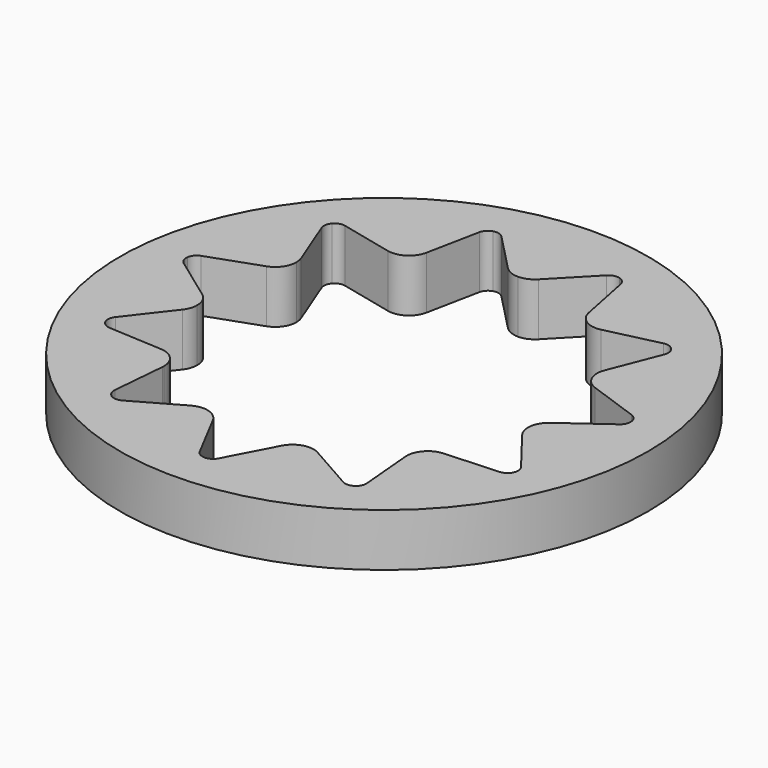
from build123d import *

# Parameters (mm, degrees)
F0_R     = 15.875
F1_DEPTH = 3.175


with BuildPart() as f1:
    # F0 (on Top) → F1 (new body)
    with BuildSketch(Plane.XY):
        Circle(F0_R)
        with BuildLine():
            ThreePointArc((0, 13.49375), (1.920361, 13.356403), (3.801629, 12.947158))
            ThreePointArc((3.801629, 12.947158), (7.295272, 11.351665), (10.197896, 8.836527))
            ThreePointArc((10.197896, 8.836527), (12.274347, 5.605506), (13.356403, 1.920361))
            ThreePointArc((13.356403, 1.920361), (13.459369, 0.962633), (13.49375, 0))
            ThreePointArc((13.49375, 0), (13.185376, -2.868303), (12.274347, -5.605506))
            ThreePointArc((12.274347, -5.605506), (10.197896, -8.836527), (7.295272, -11.351665))
            ThreePointArc((7.295272, -11.351665), (3.801629, -12.947158), (0, -13.49375))
            ThreePointArc((0, -13.49375), (-3.801629, -12.947158), (-7.295272, -11.351665))
            ThreePointArc((-7.295272, -11.351665), (-10.197896, -8.836527), (-12.274347, -5.605506))
            ThreePointArc((-12.274347, -5.605506), (-13.356403, -1.920361), (-13.356403, 1.920361))
            ThreePointArc((-13.356403, 1.920361), (-12.274347, 5.605506), (-10.197896, 8.836527))
            ThreePointArc((-10.197896, 8.836527), (-7.295272, 11.351665), (-3.801629, 12.947158))
            ThreePointArc((-3.801629, 12.947158), (-1.920361, 13.356403), (0, 13.49375))
        make_face(mode=Mode.SUBTRACT)
        with BuildLine():
            ThreePointArc((-4.245319, 12.462805), (-4.090966, 12.766808), (-3.801629, 12.947158))
            ThreePointArc((-3.801629, 12.947158), (-7.295272, 11.351665), (-10.197896, 8.836527))
            ThreePointArc((-10.197896, 8.836527), (-9.913648, 9.024797), (-9.572997, 9.038914))
            Line((-9.572997, 9.038914), (-6.418023, 8.298951))
            ThreePointArc((-6.418023, 8.298951), (-6.916891, 10.530686), (-4.858029, 9.535398))
            ThreePointArc((-4.858029, 9.535398), (-4.864249, 9.409858), (-4.882848, 9.285548))
            Line((-4.882848, 9.285548), (-4.245319, 12.462805))
        make_face()
        with BuildLine():
            ThreePointArc((-6.418023, 8.298951), (-5.441415, 8.467007), (-4.882848, 9.285548))
            ThreePointArc((-4.882848, 9.285548), (-4.864249, 9.409858), (-4.858029, 9.535398))
            ThreePointArc((-4.858029, 9.535398), (-6.916891, 10.530686), (-6.418023, 8.298951))
        make_face()
        with BuildLine():
            ThreePointArc((-13.100136, 1.315559), (-13.312545, 1.58225), (-13.356403, 1.920361))
            ThreePointArc((-13.356403, 1.920361), (-13.356403, -1.920361), (-12.274347, -5.605506))
            ThreePointArc((-12.274347, -5.605506), (-12.327522, -5.268735), (-12.198852, -4.953004))
            Line((-12.198852, -4.953004), (-10.215134, -2.390531))
            ThreePointArc((-10.215134, -2.390531), (-12.476452, -1.793843), (-10.47484, -0.584239))
            Line((-10.47484, -0.584239), (-13.100136, 1.315559))
        make_face()
        with BuildLine():
            ThreePointArc((-9.949379, -1.613103), (-10.088347, -1.035463), (-10.47484, -0.584239))
            ThreePointArc((-10.47484, -0.584239), (-12.476452, -1.793843), (-10.215134, -2.390531))
            ThreePointArc((-10.215134, -2.390531), (-10.017653, -2.023901), (-9.949379, -1.613103))
        make_face()
        with BuildLine():
            ThreePointArc((-10.309291, 8.189186), (-10.343797, 8.528379), (-10.197896, 8.836527))
            ThreePointArc((-10.197896, 8.836527), (-12.274347, 5.605506), (-13.356403, 1.920361))
            ThreePointArc((-13.356403, 1.920361), (-13.219065, 2.232419), (-12.940124, 2.428465))
            Line((-12.940124, 2.428465), (-9.885936, 3.511676))
            ThreePointArc((-9.885936, 3.511676), (-11.465684, 5.236202), (-9.127859, 5.171633))
            Line((-9.127859, 5.171633), (-10.309291, 8.189186))
        make_face()
        with BuildLine():
            ThreePointArc((-9.040451, 4.708625), (-9.062495, 4.944219), (-9.127859, 5.171633))
            ThreePointArc((-9.127859, 5.171633), (-11.465684, 5.236202), (-9.885936, 3.511676))
            ThreePointArc((-9.885936, 3.511676), (-9.273139, 3.975902), (-9.040451, 4.708625))
        make_face()
        with BuildLine():
            Line((0, 12.60475), (0, 13.49375))
            ThreePointArc((0, 13.49375), (-1.920361, 13.356403), (-3.801629, 12.947158))
            ThreePointArc((-3.801629, 12.947158), (-3.460718, 12.951865), (-3.166512, 12.779572))
            Line((-3.166512, 12.779572), (-0.912433, 10.451367))
            ThreePointArc((-0.912433, 10.451367), (-1.169358, 11.830231), (0, 12.60475))
        make_face()
        with BuildLine():
            ThreePointArc((1.27, 11.33475), (0.898026, 12.232776), (0, 12.60475))
            Line((0, 12.60475), (0, 10.06475))
            ThreePointArc((0, 10.06475), (0.495481, 10.165392), (0.912433, 10.451367))
            ThreePointArc((0.912433, 10.451367), (1.177219, 10.858247), (1.27, 11.33475))
        make_face()
        with BuildLine():
            ThreePointArc((3.166512, 12.779572), (3.460718, 12.951865), (3.801629, 12.947158))
            ThreePointArc((3.801629, 12.947158), (1.920361, 13.356403), (0, 13.49375))
            Line((0, 13.49375), (0, 12.60475))
            ThreePointArc((0, 12.60475), (0.898026, 12.232776), (1.27, 11.33475))
            ThreePointArc((1.27, 11.33475), (1.177219, 10.858247), (0.912433, 10.451367))
            Line((0.912433, 10.451367), (3.166512, 12.779572))
        make_face()
        with BuildLine():
            Line((0, 10.06475), (0, 12.60475))
            ThreePointArc((0, 12.60475), (-1.169358, 11.830231), (-0.912433, 10.451367))
            ThreePointArc((-0.912433, 10.451367), (-0.495481, 10.165392), (0, 10.06475))
        make_face()
        with BuildLine():
            ThreePointArc((10.197896, 8.836527), (7.295272, 11.351665), (3.801629, 12.947158))
            ThreePointArc((3.801629, 12.947158), (4.090966, 12.766808), (4.245319, 12.462805))
            Line((4.245319, 12.462805), (4.882848, 9.285548))
            ThreePointArc((4.882848, 9.285548), (6.002488, 10.799178), (7.398029, 9.535398))
            ThreePointArc((7.398029, 9.535398), (7.123316, 8.746536), (6.418023, 8.298951))
            Line((6.418023, 8.298951), (9.572997, 9.038914))
            ThreePointArc((9.572997, 9.038914), (9.913648, 9.024797), (10.197896, 8.836527))
        make_face()
        with BuildLine():
            ThreePointArc((7.398029, 9.535398), (6.002488, 10.799178), (4.882848, 9.285548))
            ThreePointArc((4.882848, 9.285548), (5.441415, 8.467006), (6.418023, 8.298951))
            ThreePointArc((6.418023, 8.298951), (7.123316, 8.746536), (7.398029, 9.535398))
        make_face()
        with BuildLine():
            ThreePointArc((13.356403, 1.920361), (12.274347, 5.605506), (10.197896, 8.836527))
            ThreePointArc((10.197896, 8.836527), (10.312958, 8.6426), (10.352995, 8.420691))
            ThreePointArc((10.352995, 8.420691), (10.341973, 8.302894), (10.309291, 8.189187))
            Line((10.309291, 8.189187), (9.127859, 5.171633))
            ThreePointArc((9.127859, 5.171633), (10.546044, 5.956582), (11.580451, 4.708625))
            ThreePointArc((11.580451, 4.708625), (11.043174, 3.671313), (9.885936, 3.511676))
            Line((9.885936, 3.511676), (12.940124, 2.428466))
            ThreePointArc((12.940124, 2.428466), (13.219065, 2.23242), (13.356403, 1.920361))
        make_face()
        with BuildLine():
            ThreePointArc((9.127859, 5.171633), (9.155219, 4.181048), (9.885936, 3.511676))
            ThreePointArc((9.885936, 3.511676), (11.043174, 3.671313), (11.580451, 4.708625))
            ThreePointArc((11.580451, 4.708625), (10.546044, 5.956582), (9.127859, 5.171633))
        make_face()
        with BuildLine():
            ThreePointArc((13.49375, 0), (13.459369, 0.962633), (13.356403, 1.920361))
            ThreePointArc((13.356403, 1.920361), (13.361249, 1.875291), (13.362866, 1.829991))
            ThreePointArc((13.362866, 1.829991), (13.293382, 1.541171), (13.100136, 1.315559))
            Line((13.100136, 1.315559), (10.47484, -0.584239))
            ThreePointArc((10.47484, -0.584239), (11.797019, -0.482072), (12.489379, -1.613103))
            ThreePointArc((12.489379, -1.613103), (11.630177, -2.814829), (10.215134, -2.390531))
            Line((10.215134, -2.390531), (12.198853, -4.953004))
            ThreePointArc((12.198853, -4.953004), (12.297593, -5.136319), (12.33173, -5.341718))
            ThreePointArc((12.33173, -5.341718), (12.317219, -5.476697), (12.274347, -5.605506))
            ThreePointArc((12.274347, -5.605506), (13.185376, -2.868303), (13.49375, 0))
        make_face()
        with BuildLine():
            ThreePointArc((12.489379, -1.613103), (11.797019, -0.482072), (10.47484, -0.584239))
            ThreePointArc((10.47484, -0.584239), (9.962305, -1.432363), (10.215134, -2.390531))
            ThreePointArc((10.215134, -2.390531), (11.630177, -2.814829), (12.489379, -1.613103))
        make_face()
        with BuildLine():
            ThreePointArc((7.295272, -11.351665), (10.197896, -8.836527), (12.274347, -5.605506))
            ThreePointArc((12.274347, -5.605506), (12.054655, -5.866232), (11.73178, -5.97575))
            Line((11.73178, -5.97575), (8.496133, -6.154619))
            ThreePointArc((8.496133, -6.154619), (9.439122, -6.500206), (9.836232, -7.422683))
            ThreePointArc((9.836232, -7.422683), (8.621825, -8.691465), (7.301099, -7.533761))
            Line((7.301099, -7.533761), (7.584532, -10.76193))
            ThreePointArc((7.584532, -10.76193), (7.586357, -10.789673), (7.586965, -10.817469))
            ThreePointArc((7.586965, -10.817469), (7.509291, -11.121792), (7.295272, -11.351665))
        make_face()
        with BuildLine():
            ThreePointArc((9.836232, -7.422683), (9.439122, -6.500206), (8.496133, -6.154619))
            ThreePointArc((8.496133, -6.154619), (7.606431, -6.59101), (7.301099, -7.533761))
            ThreePointArc((7.301099, -7.533761), (8.621825, -8.691465), (9.836232, -7.422683))
        make_face()
        with BuildLine():
            ThreePointArc((0, -13.49375), (3.801629, -12.947158), (7.295272, -11.351665))
            ThreePointArc((7.295272, -11.351665), (6.969497, -11.452227), (6.638667, -11.3698))
            Line((6.638667, -11.3698), (3.819964, -9.770951))
            ThreePointArc((3.819964, -9.770951), (4.290792, -10.236425), (4.463368, -10.875613))
            ThreePointArc((4.463368, -10.875613), (2.889251, -12.108663), (2.069017, -10.285075))
            Line((2.069017, -10.285075), (0.562176, -13.154019))
            ThreePointArc((0.562176, -13.154019), (0.328428, -13.402221), (0, -13.49375))
        make_face()
        with BuildLine():
            ThreePointArc((4.463368, -10.875613), (4.290792, -10.236425), (3.819964, -9.770951))
            ThreePointArc((3.819964, -9.770951), (2.835568, -9.657057), (2.069017, -10.285075))
            ThreePointArc((2.069017, -10.285075), (2.889251, -12.108663), (4.463368, -10.875613))
        make_face()
        with BuildLine():
            ThreePointArc((-6.638667, -11.3698), (-6.969497, -11.452227), (-7.295272, -11.351665))
            ThreePointArc((-7.295272, -11.351665), (-3.801629, -12.947158), (0, -13.49375))
            ThreePointArc((0, -13.49375), (-0.328427, -13.402221), (-0.562175, -13.154019))
            Line((-0.562175, -13.154019), (-2.069017, -10.285075))
            ThreePointArc((-2.069017, -10.285075), (-1.960318, -10.571496), (-1.923368, -10.875613))
            ThreePointArc((-1.923368, -10.875613), (-3.832556, -11.973036), (-3.819964, -9.770951))
            Line((-3.819964, -9.770951), (-6.638667, -11.3698))
        make_face()
        with BuildLine():
            ThreePointArc((-2.069017, -10.285075), (-2.835568, -9.657057), (-3.819964, -9.770951))
            ThreePointArc((-3.819964, -9.770951), (-3.832556, -11.973036), (-1.923368, -10.875613))
            ThreePointArc((-1.923368, -10.875613), (-1.960318, -10.571496), (-2.069017, -10.285075))
        make_face()
        with BuildLine():
            ThreePointArc((-11.73178, -5.97575), (-12.054655, -5.866232), (-12.274347, -5.605506))
            ThreePointArc((-12.274347, -5.605506), (-10.197896, -8.836527), (-7.295272, -11.351665))
            ThreePointArc((-7.295272, -11.351665), (-7.522078, -11.097104), (-7.584532, -10.76193))
            Line((-7.584532, -10.76193), (-7.301099, -7.533761))
            ThreePointArc((-7.301099, -7.533761), (-9.526034, -8.254356), (-8.496133, -6.154619))
            Line((-8.496133, -6.154619), (-11.73178, -5.97575))
        make_face()
        with BuildLine():
            ThreePointArc((-7.296232, -7.422683), (-7.643756, -6.549793), (-8.496133, -6.154619))
            ThreePointArc((-8.496133, -6.154619), (-9.526034, -8.254356), (-7.301099, -7.533761))
            ThreePointArc((-7.301099, -7.533761), (-7.29745, -7.478275), (-7.296232, -7.422683))
        make_face()
    extrude(amount=-F1_DEPTH)


solid = f1.part
